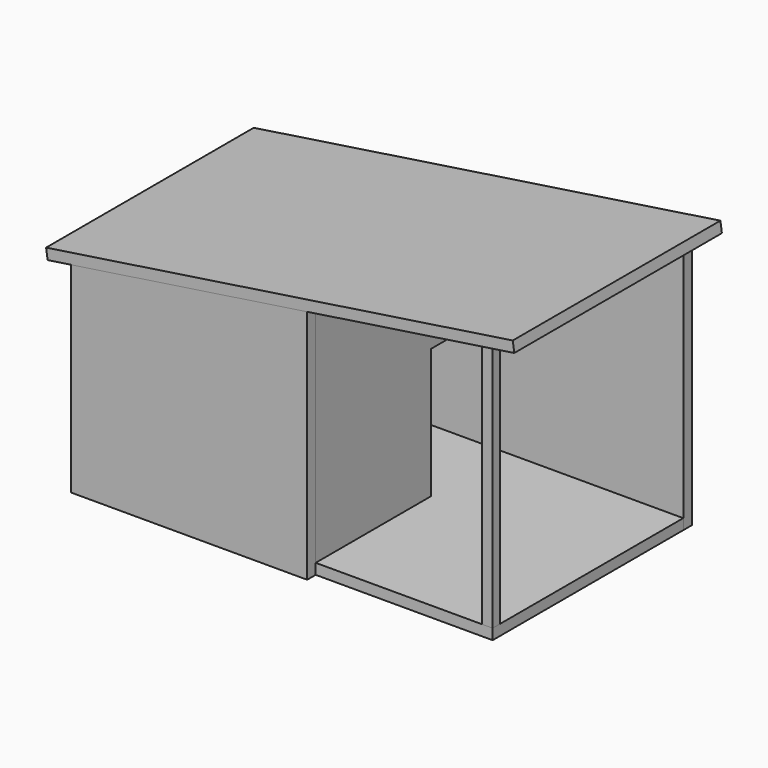
from build123d import *

# Parameters (mm, degrees)
F1_DEPTH  = 1010
F2_DEPTH  = 1055
F3_DEPTH  = 45
F5_DEPTH  = 45
F6_W      = 400
F6_H      = 550
F7_DEPTH  = 45
F8_W      = 1705
F8_H      = 1010
F9_DEPTH  = 45
F10_W     = 45
F10_H     = 39.4975058734
F11_DEPTH = 1067.5
F13_DEPTH = 45


with BuildPart() as f1:
    # F0 (on Front) → F1 (new body)
    with BuildSketch(Plane.XZ):
        Polygon((-955, 0), (-955, 856.75), (-1000, 850), (-1000, 0), align=None)
    extrude(amount=-F1_DEPTH)


with BuildPart() as f1b:
    # F0 (on Front) → F1, piece 2 (new body)
    with BuildSketch(Plane.XZ):
        Polygon((0, 45), (0, 1000), (-45, 993.25), (-45, 45), align=None)
    extrude(amount=-F1_DEPTH)

    # F6 (on face) → F7 (cut, through all)
    with BuildSketch(Plane.YZ):
        with Locations((810, 320)):
            Rectangle(F6_W, F6_H)
    extrude(amount=-F7_DEPTH, mode=Mode.SUBTRACT)


with BuildPart() as f2:
    # F0 (on Front) → F2 (new body)
    with BuildSketch(Plane.XZ):
        Polygon((-45, 993.25), (0, 1000), (877.8727057366, 1131.6809058605), (871.3081797654, 1176.1996609012), (-1106.6753203819, 879.5021358791), (-1100, 835), (-1000, 850), (-955, 856.75), align=None)
    extrude(amount=-F2_DEPTH)

    # F0 (on Front) → F3 (join)
    with BuildSketch(Plane.XZ):
        Polygon((-45, 993.25), (0, 1000), (877.8727057366, 1131.6809058605), (871.3081797654, 1176.1996609012), (-1106.6753203819, 879.5021358791), (-1100, 835), (-1000, 850), (-955, 856.75), align=None)
    extrude(amount=F3_DEPTH)

    # F10 (on face) → F11 (join, through all)
    with BuildSketch(Plane.XY.offset(45)):
        with Locations((727.5, 19.7487529367)):
            Rectangle(F10_W, F10_H)
    extrude(amount=F11_DEPTH)


with BuildPart() as f5:
    # F4 (on face) → F5 (new body)
    with BuildSketch(Plane(origin=(0, 1010, 0), x_dir=(-1, 0, 0), z_dir=(0, 1, 0))):
        Polygon((-750, 1112.5), (-750, 0), (1000, 0), (1000, 849.1256712336), align=None)
    extrude(amount=F5_DEPTH)


with BuildPart() as f9:
    # F8 (on face) → F9 (new body)
    with BuildSketch(Plane(origin=(0, 0, 0), x_dir=(1, 0, 0), z_dir=(0, 0, -1))):
        with Locations((-102.5, -505)):
            Rectangle(F8_W, F8_H)
    extrude(amount=-F9_DEPTH)


with BuildPart() as f13:
    # F12 (on face) → F13 (new body)
    with BuildSketch(Plane.XZ):
        Polygon((0, 1000), (-955, 856.75), (-955, 0), (0, 0), align=None)
        Polygon((-955, 856.75), (-1000, 850), (-1000, 0), (-955, 0), align=None)
    extrude(amount=F13_DEPTH)


solid = Compound([f1.part, f1b.part, f2.part, f5.part, f9.part, f13.part])
